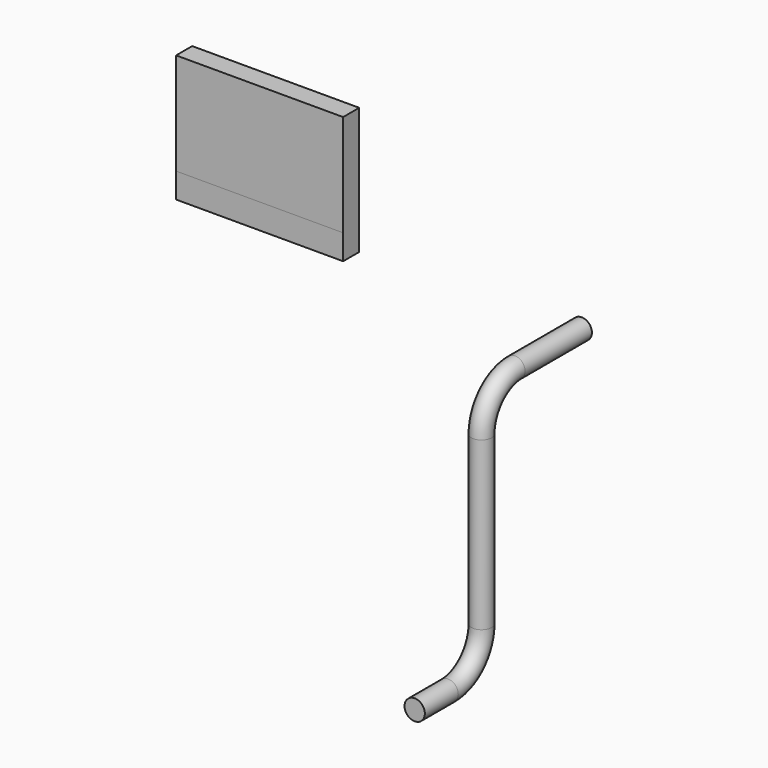
from build123d import *

# Parameters (mm, degrees)
F1_R      = 3.085255
F3_W      = 50.8
F3_H      = 6.115661
F4_DEPTH  = 30.988
F4_FACE_W = 50.8
F4_FACE_H = 6.11566
F5_DEPTH  = 7.62


with BuildPart() as f2:
    # F2: sweep along a path in F0
    with BuildLine(Plane.YZ) as f2_path:
        Line((0, 0), (-25.4, 0))
        ThreePointArc((-25.4, 0), (-34.380256, -3.719744), (-38.1, -12.7))
        Line((-38.1, -12.7), (-38.1, -63.5))
        ThreePointArc((-38.1, -63.5), (-41.819744, -72.480256), (-50.8, -76.2))
        Line((-50.8, -76.2), (-63.5, -76.2))
    # F1 (on Front) → F2 (sweep)
    with BuildSketch(Plane.XZ):
        Circle(F1_R)
    sweep(path=f2_path.line)


with BuildPart() as f4:
    # F3 (on Top) → F4 (new body)
    with BuildSketch(Plane.XY):
        with Locations((-100.494556, 6.212143)):
            Rectangle(F3_W, F3_H)
    extrude(amount=F4_DEPTH)

    # F4_face (on face) → F5 (join)
    with BuildSketch(Plane(origin=(-100.494556, 6.212143, 0), x_dir=(1, 0, 0), z_dir=(0, 0, -1))):
        Rectangle(F4_FACE_W, F4_FACE_H)
    extrude(amount=F5_DEPTH)


solid = Compound([f2.part, f4.part])
